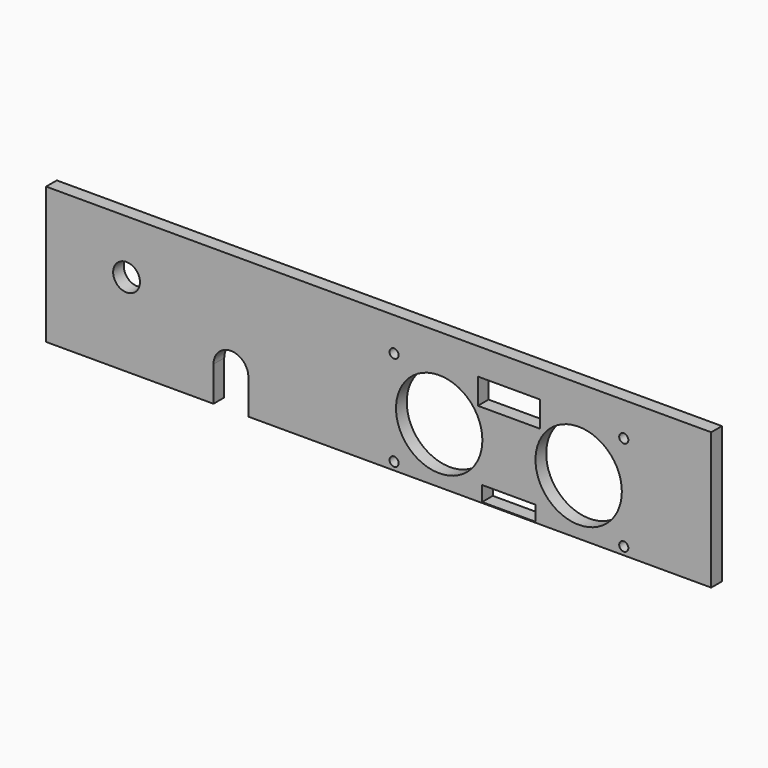
from build123d import *

# Parameters (mm, degrees)
F0_R     = 0.85
F0_R_2   = 8.05
F0_R_3   = 2.5
F1_DEPTH = 2.5


with BuildPart() as f1:
    # F0 (on Front) → F1 (new body)
    with BuildSketch(Plane.XZ):
        with BuildLine():
            Line((0, 46.5), (0, 21))
            Line((0, 21), (31.21, 21))
            Line((31.21, 21), (31.21, 27.5))
            ThreePointArc((31.21, 27.5), (34.46, 30.75), (37.71, 27.5))
            Line((37.71, 27.5), (37.71, 21))
            Line((37.71, 21), (124, 21))
            Line((124, 21), (124, 46.5))
            Line((124, 46.5), (0, 46.5))
        make_face()
        with Locations((64.88, 22.46)):
            Circle(F0_R, mode=Mode.SUBTRACT)
        Polygon((81.29, 21.16), (81.29, 23.96), (86.29, 23.96), (91.29, 23.96), (91.29, 21.16), (86.29, 21.16), align=None, mode=Mode.SUBTRACT)
        with Locations((107.7, 22.46)):
            Circle(F0_R, mode=Mode.SUBTRACT)
        with Locations((73.29, 31.33)):
            Circle(F0_R_2, mode=Mode.SUBTRACT)
        with Locations((99.29, 31.33)):
            Circle(F0_R_2, mode=Mode.SUBTRACT)
        with Locations((15, 36.5)):
            Circle(F0_R_3, mode=Mode.SUBTRACT)
        Polygon((80.49, 36.7), (80.49, 41.5), (86.29, 41.5), (92.09, 41.5), (92.09, 36.7), (86.29, 36.7), align=None, mode=Mode.SUBTRACT)
        with Locations((64.88, 40.2)):
            Circle(F0_R, mode=Mode.SUBTRACT)
        with Locations((107.7, 40.2)):
            Circle(F0_R, mode=Mode.SUBTRACT)
    extrude(amount=F1_DEPTH)


solid = f1.part
